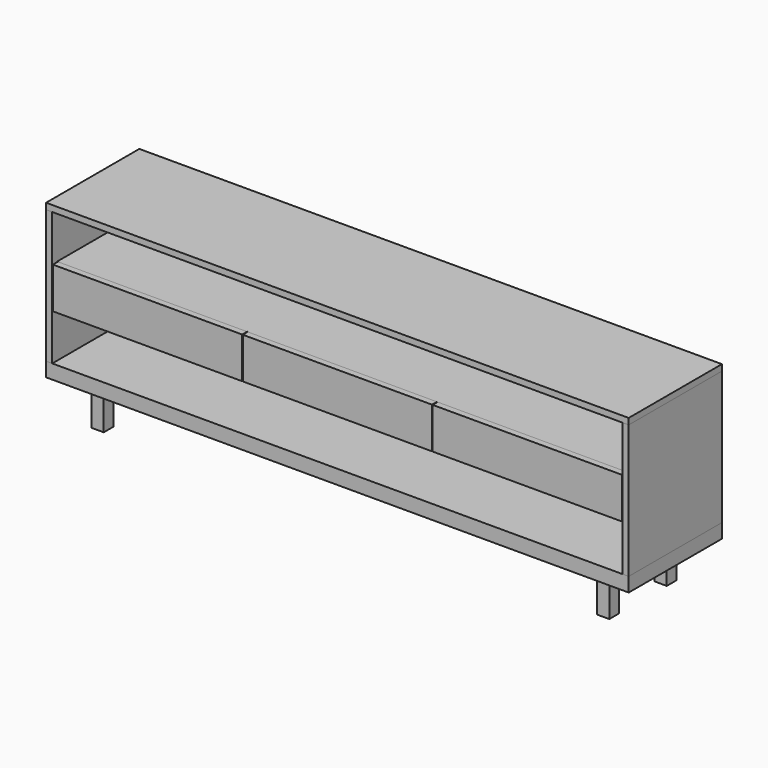
from build123d import *

# Parameters (mm, degrees)
F0_W      = 1800
F0_H      = 19.05
F1_DEPTH  = 180
F2_W      = 19.05
F2_H      = 411.9
F3_DEPTH  = 360
F4_W      = 1761.9
F4_H      = 19.05
F5_DEPTH  = 340.95
F6_W      = 19.05
F6_H      = 38.1
F7_DEPTH  = 1761.9
F8_W      = 19.05
F8_H      = 88.9
F9_DEPTH  = 340.95
F10_W     = 1761.9
F10_H     = 127
F11_DEPTH = 19.05
F12_W     = 584.6333333333
F12_H     = 127
F13_DEPTH = 19.05
F14_DEPTH = 25
F15_W     = 38.1
F15_H     = 38.1
F16_DEPTH = 125
F17_W     = 1523.8
F17_H     = 19.05
F18_DEPTH = 38.1


with BuildPart() as f1:
    # F0 (on Front) → F1 (new body, symmetric)
    with BuildSketch(Plane.XZ):
        with Locations((0, 215.475)):
            Rectangle(F0_W, F0_H)
    extrude(amount=F1_DEPTH, both=True)


with BuildPart() as f1b:
    # F0 (on Front) → F1, piece 2 (new body, symmetric)
    with BuildSketch(Plane.XZ):
        with Locations((0, -215.475)):
            Rectangle(F0_W, F0_H)
    extrude(amount=F1_DEPTH, both=True)

    # F14 (add): a face of the model
    f14_faces = [f1b.faces().sort_by_distance(p)[0] for p in [
        (0, 0, -225),
    ]]
    extrude(f14_faces, amount=F14_DEPTH)

    # F15 (on face) → F16 (join)
    with BuildSketch(Plane(origin=(0, 0, -250), x_dir=(1, 0, 0), z_dir=(0, 0, -1))):
        with Locations((-780.95, 110.95)):
            Rectangle(F15_W, F15_H)
        with Locations((780.95, 110.95)):
            Rectangle(F15_W, F15_H)
        with Locations((-780.95, -110.95)):
            Rectangle(F15_W, F15_H)
        with Locations((780.95, -110.95)):
            Rectangle(F15_W, F15_H)
    extrude(amount=F16_DEPTH)

    # F17 (on face) → F18 (join)
    with BuildSketch(Plane(origin=(0, 0, -250), x_dir=(1, 0, 0), z_dir=(0, 0, -1))):
        with Locations((0, 101.425)):
            Rectangle(F17_W, F17_H)
        with Locations((0, -101.425)):
            Rectangle(F17_W, F17_H)
    extrude(amount=F18_DEPTH)


with BuildPart() as f3:
    # F2 (on face) → F3 (new body, through all)
    with BuildSketch(Plane.XZ.offset(180)):
        with Locations((-890.475, 0)):
            Rectangle(F2_W, F2_H)
    extrude(amount=-F3_DEPTH)


with BuildPart() as f3b:
    # F2 (on face) → F3, piece 2 (new body, through all)
    with BuildSketch(Plane.XZ.offset(180)):
        with Locations((890.475, 0)):
            Rectangle(F2_W, F2_H)
    extrude(amount=-F3_DEPTH)


with BuildPart() as f5:
    # F4 (on face) → F5 (new body)
    with BuildSketch(Plane.XZ.offset(180)):
        with Locations((0, 53.975)):
            Rectangle(F4_W, F4_H)
    extrude(amount=-F5_DEPTH)


with BuildPart() as f5b:
    # F4 (on face) → F5, piece 2 (new body)
    with BuildSketch(Plane.XZ.offset(180)):
        with Locations((0, -53.975)):
            Rectangle(F4_W, F4_H)
    extrude(amount=-F5_DEPTH)


with BuildPart() as f7:
    # F6 (on face) → F7 (new body, through all)
    with BuildSketch(Plane.YZ.offset(-880.95)):
        with Locations((170.475, 44.45)):
            Rectangle(F6_W, F6_H)
    extrude(amount=F7_DEPTH)


with BuildPart() as f7b:
    # F6 (on face) → F7, piece 2 (new body, through all)
    with BuildSketch(Plane.YZ.offset(-880.95)):
        with Locations((170.475, -44.45)):
            Rectangle(F6_W, F6_H)
    extrude(amount=F7_DEPTH)


with BuildPart() as f7c:
    # F6 (on face) → F7, piece 3 (new body, through all)
    with BuildSketch(Plane.YZ.offset(-880.95)):
        with Locations((170.475, 186.9)):
            Rectangle(F6_W, F6_H)
    extrude(amount=F7_DEPTH)


with BuildPart() as f7d:
    # F6 (on face) → F7, piece 4 (new body, through all)
    with BuildSketch(Plane.YZ.offset(-880.95)):
        with Locations((170.475, -186.9)):
            Rectangle(F6_W, F6_H)
    extrude(amount=F7_DEPTH)


with BuildPart() as f9:
    # F8 (on face) → F9 (new body, through all)
    with BuildSketch(Plane.XZ.offset(180)):
        with Locations((-296.825, 0)):
            Rectangle(F8_W, F8_H)
    extrude(amount=-F9_DEPTH)


with BuildPart() as f9b:
    # F8 (on face) → F9, piece 2 (new body, through all)
    with BuildSketch(Plane.XZ.offset(180)):
        with Locations((296.825, 0)):
            Rectangle(F8_W, F8_H)
    extrude(amount=-F9_DEPTH)


with BuildPart() as f11_tool:
    # F10 (on face) → F11 (new body)
    with BuildSketch(Plane.XZ.offset(180)):
        Rectangle(F10_W, F10_H)
    extrude(amount=-F11_DEPTH)


with BuildPart() as f5_1:
    add(f5.part)

    # F11: cut by f11_tool
    add(f11_tool.part, mode=Mode.SUBTRACT)


with BuildPart() as f5b_1:
    add(f5b.part)

    # F11: cut by f11_tool
    add(f11_tool.part, mode=Mode.SUBTRACT)


with BuildPart() as f9_1:
    add(f9.part)

    # F11: cut by f11_tool
    add(f11_tool.part, mode=Mode.SUBTRACT)


with BuildPart() as f9b_1:
    add(f9b.part)

    # F11: cut by f11_tool
    add(f11_tool.part, mode=Mode.SUBTRACT)


with BuildPart() as f13:
    # F12 (on face) → F13 (new body)
    with BuildSketch(Plane.XZ.offset(160.95)):
        with Locations((-586.6333333333, 0)):
            Rectangle(F12_W, F12_H)
    extrude(amount=F13_DEPTH)


with BuildPart() as f13b:
    # F12 (on face) → F13, piece 2 (new body)
    with BuildSketch(Plane.XZ.offset(160.95)):
        Rectangle(F12_W, F12_H)
    extrude(amount=F13_DEPTH)


with BuildPart() as f13c:
    # F12 (on face) → F13, piece 3 (new body)
    with BuildSketch(Plane.XZ.offset(160.95)):
        with Locations((586.6333333333, 0)):
            Rectangle(F12_W, F12_H)
    extrude(amount=F13_DEPTH)


solid = Compound([f1.part, f1b.part, f3.part, f3b.part, f7.part, f7b.part, f7c.part, f7d.part, f5_1.part, f5b_1.part, f9_1.part, f9b_1.part, f13.part, f13b.part, f13c.part])
